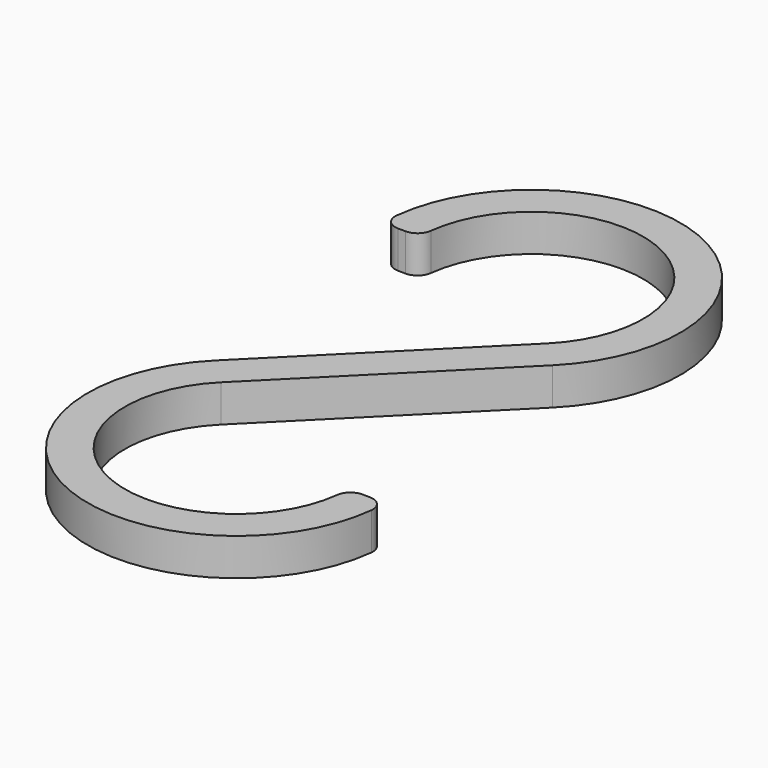
from build123d import *

# Parameters (mm, degrees)
PAD_DEPTH = 5
FILLET_R  = 2


with BuildPart() as part:
    # Sketch → Pad (new body)
    with BuildSketch(Plane.XY):
        with BuildLine():
            ThreePointArc((10.606602, -10.606602), (5.740251, 13.858193), (-15, 0))
            Line((-20, 0), (-15, 0))
            ThreePointArc((14.142136, -14.142136), (7.653669, 18.477591), (-20, 0))
            Line((14.142136, -14.142136), (-10.606602, -38.890873))
            ThreePointArc((-10.606602, -38.890873), (-5.740251, -63.355668), (15, -49.497475))
            Line((15, -49.497475), (20, -49.497475))
            ThreePointArc((-14.142136, -35.355339), (-7.653669, -67.975065), (20, -49.497475))
            Line((10.606602, -10.606602), (-14.142136, -35.355339))
        make_face()
    extrude(amount=PAD_DEPTH)

    # Fillet
    fillet_edges = [part.edges().sort_by_distance(p)[0] for p in [
        (-15, 0, 2.5),
        (-20, 0, 2.5),
        (20, -49.497475, 2.5),
        (15, -49.497475, 2.5),
    ]]
    fillet(fillet_edges, radius=FILLET_R)


solid = part.part
